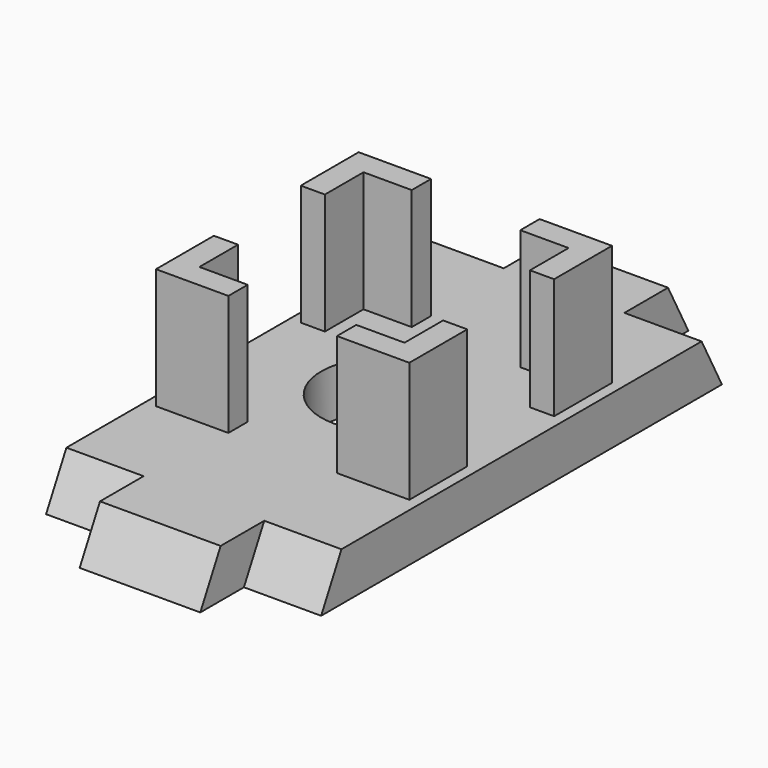
from build123d import *

# Parameters (mm, degrees)
PAD051_DEPTH    = 57
POCKET043_DEPTH = 16
POCKET042_DEPTH = 16
SKETCH097_R     = 13
POCKET047_DEPTH = 10.001
PAD052_DEPTH    = 25


with BuildPart() as part:
    # Sketch095 → Pad051 (new body)
    with BuildSketch(Plane.YZ):
        Polygon((92.056432, 72.85), (207.943568, 72.85), (213.208897, 62.85), (86.791103, 62.85), align=None)
    extrude(amount=-PAD051_DEPTH)

    # Sketch098 (on Face5 of Pad051) → Pocket043 (cut)
    with BuildSketch(Plane.YZ):
        Polygon((86.791103, 62.85), (98.092594, 62.85), (103.357923, 72.85), (92.056432, 72.85), align=None)
        Polygon((207.943568, 72.85), (196.642077, 72.85), (201.907406, 62.85), (213.208897, 62.85), align=None)
    extrude(amount=-POCKET043_DEPTH, mode=Mode.SUBTRACT)

    # Sketch096 (on Face8 of Pocket043) → Pocket042 (cut)
    with BuildSketch(Plane(origin=(-57, 0, 0), x_dir=(0, 1, 0), z_dir=(-1, 0, 0))):
        Polygon((86.791103, -62.85), (92.056432, -72.85), (103.357923, -72.85), (98.092594, -62.85), align=None)
        Polygon((201.907406, -62.85), (213.208897, -62.85), (207.943568, -72.85), (196.642077, -72.85), align=None)
    extrude(amount=-POCKET042_DEPTH, mode=Mode.SUBTRACT)

    # Sketch097 (on Face1 of Pocket042) → Pocket047 (cut, through all)
    with BuildSketch(Plane(origin=(0, 0, 72.85), x_dir=(0, -1, 0), z_dir=(0, 0, 1))):
        with Locations((-150, -28.5)):
            Circle(SKETCH097_R)
    extrude(amount=-POCKET047_DEPTH, mode=Mode.SUBTRACT)

    # Sketch104 (on Face1 of Pocket047) → Pad052 (join)
    with BuildSketch(Plane(origin=(0, 0, 72.85), x_dir=(0, -1, 0), z_dir=(0, 0, 1))):
        Polygon((-176.25, -2.25), (-176.25, -17.25), (-171.25, -17.25), (-171.25, -7.25), (-161.25, -7.25), (-161.25, -2.25), align=None)
        Polygon((-128.75, -7.25), (-128.75, -17.25), (-123.75, -17.25), (-123.75, -2.25), (-138.75, -2.25), (-138.75, -7.25), align=None)
        Polygon((-138.75, -54.75), (-123.75, -54.75), (-123.75, -39.75), (-128.75, -39.75), (-128.75, -49.75), (-138.75, -49.75), align=None)
        Polygon((-171.25, -49.75), (-161.25, -49.75), (-161.25, -54.75), (-176.25, -54.75), (-176.25, -39.75), (-171.25, -39.75), align=None)
    extrude(amount=PAD052_DEPTH)


solid = part.part
